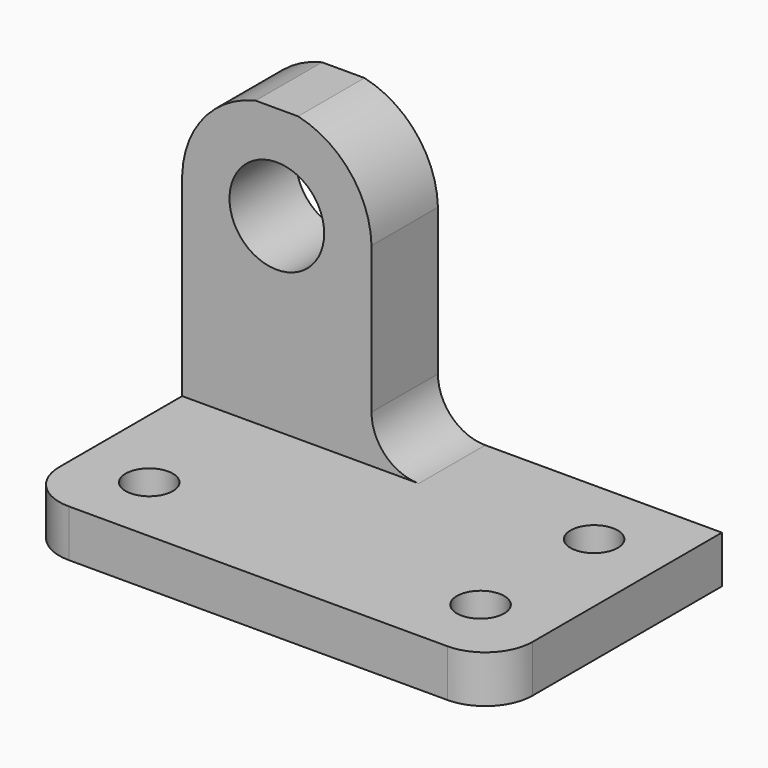
from build123d import *

# Parameters (mm, degrees)
F1_DEPTH = 63.5
F3_DEPTH = 12.7
F4_R     = 6.35
F5_DEPTH = 12.7
F6_R     = 3.175
F7_DEPTH = 6.35


with BuildPart() as f1:
    # F0 (on Right) → F1 (new body)
    with BuildSketch(Plane.YZ):
        Polygon((0, 6.35), (0, 0), (38.1, 0), (38.1, 44.45), (26.9596510282, 44.45), (26.9596510282, 6.35), align=None)
    extrude(amount=F1_DEPTH)

    # F2 (on face) → F3 (cut)
    with BuildSketch(Plane.XZ.offset(-26.9596510282)):
        with BuildLine():
            Line((63.5, 44.45), (25.4, 44.45))
            Line((25.4, 44.45), (25.4, 12.7))
            ThreePointArc((25.4, 12.7), (27.2598719395, 8.2098719395), (31.75, 6.35))
            Line((31.75, 6.35), (63.5, 6.35))
            Line((63.5, 6.35), (63.5, 44.45))
        make_face()
    extrude(amount=-F3_DEPTH, mode=Mode.SUBTRACT)

    # F4 (on face) → F5 (cut)
    with BuildSketch(Plane.XZ.offset(-26.9596510282)):
        with BuildLine():
            ThreePointArc((15.5470193775, 44.45), (22.5386496815, 40.1060799579), (25.4, 32.3882298689))
            Line((25.4, 32.3882298689), (25.4, 44.45))
            Line((25.4, 44.45), (15.5470193775, 44.45))
        make_face()
        with Locations((12.7, 31.75)):
            Circle(F4_R)
        with BuildLine():
            ThreePointArc((0, 32.3882298689), (2.8613503185, 40.1060799579), (9.8529806225, 44.45))
            Line((9.8529806225, 44.45), (0, 44.45))
            Line((0, 44.45), (0, 32.3882298689))
        make_face()
    extrude(amount=-F5_DEPTH, mode=Mode.SUBTRACT)

    # F6 (on face) → F7 (cut)
    with BuildSketch(Plane.XY.offset(6.35)):
        with Locations((53.975, 9.525)):
            Circle(F6_R)
        with BuildLine():
            ThreePointArc((63.5, 6.35), (61.6401280605, 1.8598719395), (57.15, 0))
            Line((57.15, 0), (63.5, 0))
            Line((63.5, 0), (63.5, 6.35))
        make_face()
        with BuildLine():
            ThreePointArc((6.35, 0), (1.8598719395, 1.8598719395), (0, 6.35))
            Line((0, 6.35), (0, 0))
            Line((0, 0), (6.35, 0))
        make_face()
        with Locations((9.525, 9.525)):
            Circle(F6_R)
        with Locations((53.975, 28.575005229)):
            Circle(F6_R)
    extrude(amount=-F7_DEPTH, mode=Mode.SUBTRACT)


solid = f1.part
